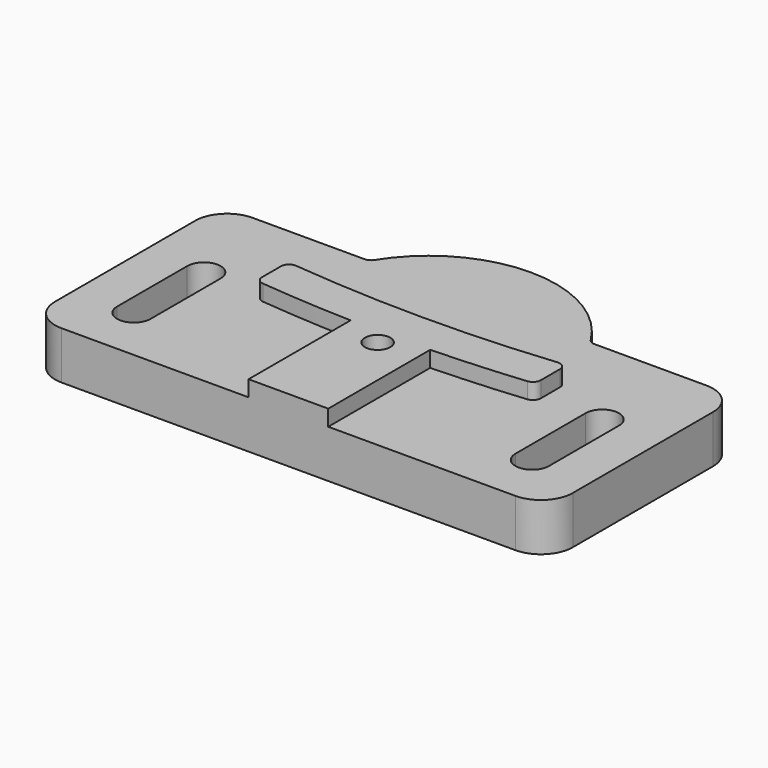
from build123d import *

# Parameters (mm, degrees)
PAD_DEPTH       = 6
PAD001_DEPTH    = 2
SKETCH002_R     = 1.6
POCKET_DEPTH    = 8.001
POCKET001_DEPTH = 4
FILLET_R        = 4
FILLET001_R     = 1


with BuildPart() as part:
    # Sketch → Pad (new body)
    with BuildSketch(Plane.XY):
        with BuildLine():
            Line((32.5, 18), (32.5, -12))
            Line((32.5, -12), (-32.5, -12))
            Line((-32.5, -12), (-32.5, 18))
            Line((-32.5, 18), (-13.856406, 18))
            ThreePointArc((13.856406, 18), (0, 26), (-13.856406, 18))
            Line((32.5, 18), (13.856406, 18))
        make_face()
        with BuildLine():
            ThreePointArc((22.9, -5), (25, -7.1), (27.1, -5))
            Line((27.1, -5), (27.1, 6))
            ThreePointArc((27.1, 6), (25, 8.1), (22.9, 6))
            Line((22.9, -5), (22.9, 6))
        make_face(mode=Mode.SUBTRACT)
        with BuildLine():
            ThreePointArc((-27.1, -5), (-25, -7.1), (-22.9, -5))
            Line((-22.9, -5), (-22.9, 6))
            ThreePointArc((-22.9, 6), (-25, 8.1), (-27.1, 6))
            Line((-27.1, -5), (-27.1, 6))
        make_face(mode=Mode.SUBTRACT)
    extrude(amount=PAD_DEPTH)

    # Sketch001 → Pad001 (new body)
    with BuildSketch(Plane.XY.offset(6)):
        with BuildLine():
            Line((5, -12), (-5, -12))
            Line((-5, -12), (-5, 4))
            ThreePointArc((-17.5, 4.829723), (-11.257647, 4.299661), (-5, 4))
            Line((-17.5, 4.829723), (-17.5, 9.829723))
            ThreePointArc((-17.5, 9.829723), (0, 8.899068), (17.5, 9.829723))
            Line((17.5, 4.829723), (17.5, 9.829723))
            ThreePointArc((5, 4), (11.257647, 4.299661), (17.5, 4.829723))
            Line((5, -12), (5, 4))
        make_face()
    extrude(amount=PAD001_DEPTH)

    # Sketch002 → Pocket (cut, through all)
    with BuildSketch(Plane.XY.offset(8)):
        with Locations((0, 2)):
            Circle(SKETCH002_R)
    extrude(amount=-POCKET_DEPTH, mode=Mode.SUBTRACT)

    # Sketch003 → Pocket001 (cut)
    with BuildSketch(Plane(origin=(0, 0, 0), x_dir=(1, 0, 0), z_dir=(0, 0, -1))):
        Polygon((2.85, -3.645448), (2.85, -0.354552), (0, 1.290897), (-2.85, -0.354552), (-2.85, -3.645448), (0, -5.290897), align=None)
    extrude(amount=-POCKET001_DEPTH, mode=Mode.SUBTRACT)

    # Fillet
    fillet_edges = [part.edges().sort_by_distance(p)[0] for p in [
        (32.5, 18, 3),
        (32.5, -12, 3),
        (-32.5, 18, 3),
        (-32.5, -12, 3),
    ]]
    fillet(fillet_edges, radius=FILLET_R)

    # Fillet001
    fillet001_edges = [part.edges().sort_by_distance(p)[0] for p in [
        (17.5, 9.829723, 7),
        (17.5, 4.829723, 7),
        (-17.5, 9.829723, 7),
        (-17.5, 4.829723, 7),
        (-13.856406, 18, 3),
        (13.856406, 18, 3),
    ]]
    fillet(fillet001_edges, radius=FILLET001_R)


solid = part.part
